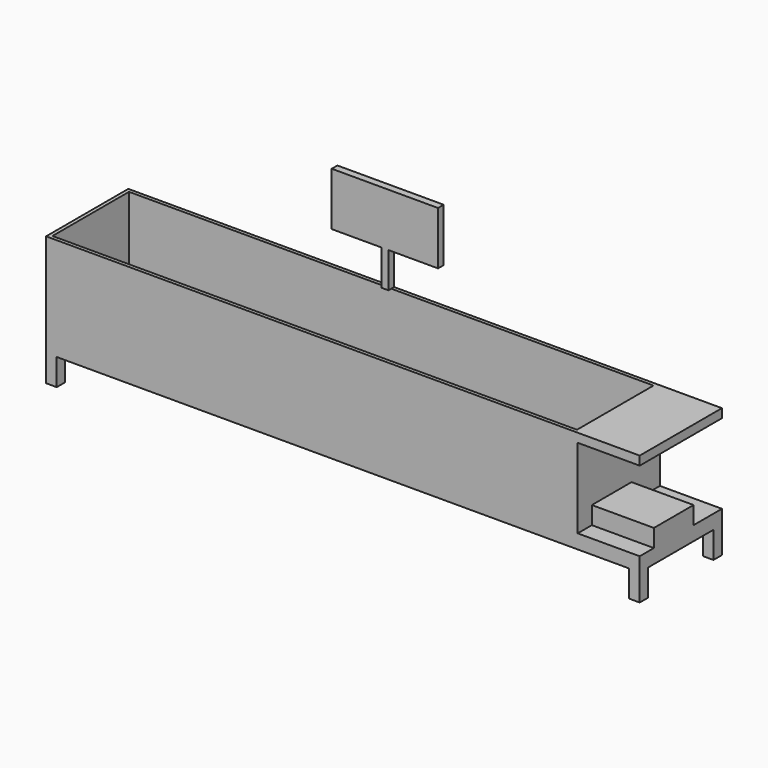
from build123d import *

# Parameters (mm, degrees)
F1_DEPTH = 580
F2_W     = 460
F2_H     = 150
F3_DEPTH = 3350.001
F4_W     = 2960
F4_H     = 540
F5_DEPTH = 500
F6_W     = 350
F6_H     = 100
F6_H_2   = 200
F7_DEPTH = 100
F9_DEPTH = 40


with BuildPart() as f1:
    # F0 (on Front) → F1 (new body)
    with BuildSketch(Plane.XZ):
        Polygon((0, 730), (0, 0), (60, 0), (60, 150), (3290, 150), (3290, 0), (3350, 0), (3350, 330), (3000, 330), (3000, 680), (3350, 680), (3350, 730), align=None)
    extrude(amount=F1_DEPTH)

    # F2 (on face) → F3 (cut, through all)
    with BuildSketch(Plane(origin=(0, 0, 0), x_dir=(0, -1, 0), z_dir=(-1, 0, 0))):
        with Locations((290, 75)):
            Rectangle(F2_W, F2_H)
    extrude(amount=-F3_DEPTH, mode=Mode.SUBTRACT)

    # F4 (on face) → F5 (cut)
    with BuildSketch(Plane.XY.offset(730)):
        with Locations((1500, -290)):
            Rectangle(F4_W, F4_H)
    extrude(amount=-F5_DEPTH, mode=Mode.SUBTRACT)

    # F6 (on face) → F7 (cut)
    with BuildSketch(Plane.XY.offset(330)):
        with Locations((3175, -530)):
            Rectangle(F6_W, F6_H)
        with Locations((3175, -100)):
            Rectangle(F6_W, F6_H_2)
    extrude(amount=-F7_DEPTH, mode=Mode.SUBTRACT)

    # F8 (on face) → F9 (join)
    with BuildSketch(Plane(origin=(0, 0, 0), x_dir=(-1, 0, 0), z_dir=(0, 1, 0))):
        Polygon((-1500, 930), (-1500, 730), (-1460, 730), (-1460, 930), (-1180, 930), (-1180, 1230), (-1780, 1230), (-1780, 930), align=None)
    extrude(amount=-F9_DEPTH)


solid = f1.part
